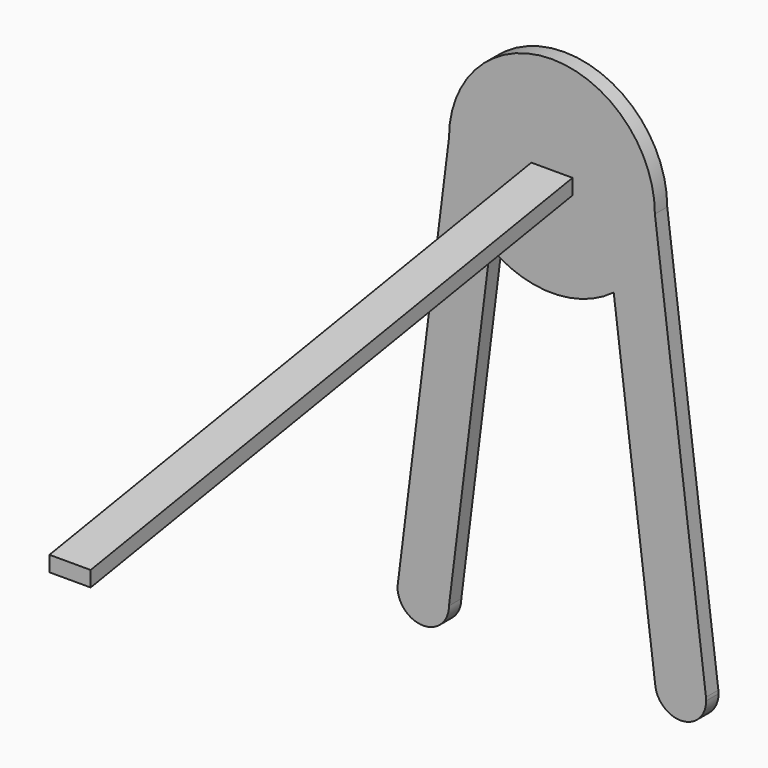
from build123d import *

# Parameters (mm, degrees)
F1_DEPTH = 3
F4_W     = 8
F4_H     = 3


with BuildPart() as f1:
    # F0 (on Front) → F1 (new body)
    with BuildSketch(Plane.XZ):
        with BuildLine():
            Line((10, 0), (20, 0))
            ThreePointArc((20, 0), (0, 20), (-20, 0))
            Line((-20, 0), (-10, 0))
            ThreePointArc((-10, 0), (0, 10), (10, 0))
        make_face()
        with BuildLine():
            Line((-10, 0), (10, 0))
            ThreePointArc((10, 0), (0, 10), (-10, 0))
        make_face()
        with BuildLine():
            ThreePointArc((-10, 0), (0, -10), (10, 0))
            Line((10, 0), (-10, 0))
        make_face()
        with BuildLine():
            Line((-10, 0), (-20, 0))
            ThreePointArc((-20, 0), (-17.88854382, -8.94427191), (-12, -16))
            Line((-12, -16), (-10, 0))
        make_face()
        with BuildLine():
            ThreePointArc((-12, -16), (0, -20), (12, -16))
            Line((12, -16), (10, 0))
            ThreePointArc((10, 0), (0, -10), (-10, 0))
            Line((-10, 0), (-12, -16))
        make_face()
        with BuildLine():
            ThreePointArc((12, -16), (17.88854382, -8.94427191), (20, 0))
            Line((20, 0), (10, 0))
            Line((10, 0), (12, -16))
        make_face()
        with BuildLine():
            Line((20, -80), (20, 0))
            ThreePointArc((20, 0), (17.88854382, -8.94427191), (12, -16))
            Line((12, -16), (20, -80))
        make_face()
        with BuildLine():
            Line((29.9230769237, -79.3846153898), (20, 0))
            Line((20, 0), (20, -80))
            Line((20, -80), (20.0386106164, -80))
            ThreePointArc((20.0386106164, -80), (24.6917119597, -75.0481979947), (29.9230769237, -79.3846153898))
        make_face()
        with BuildLine():
            ThreePointArc((-12, -16), (-17.88854382, -8.94427191), (-20, 0))
            Line((-20, 0), (-20, -80))
            Line((-20, -80), (-12, -16))
        make_face()
        with BuildLine():
            Line((-20, -80), (-20, 0))
            Line((-20, 0), (-29.8461538462, -78.7692307692))
            ThreePointArc((-29.8461538462, -78.7692307692), (-24.3798263271, -75.0386106164), (-20, -80))
        make_face()
        with BuildLine():
            Line((-30, -80), (-20, -80))
            ThreePointArc((-20, -80), (-24.3798263271, -75.0386106164), (-29.8461538462, -78.7692307692))
            Line((-29.8461538462, -78.7692307692), (-30, -80))
        make_face()
        with BuildLine():
            ThreePointArc((-30, -80), (-25, -85), (-20, -80))
            Line((-20, -80), (-30, -80))
        make_face()
        with BuildLine():
            Line((29.9613893836, -80), (20.0386106164, -80))
            ThreePointArc((20.0386106164, -80), (25, -84.9613893836), (29.9613893836, -80))
        make_face()
        with BuildLine():
            ThreePointArc((29.9613893836, -80), (29.9518020053, -79.6917119597), (29.9230769237, -79.3846153898))
            ThreePointArc((29.9230769237, -79.3846153898), (24.6917119597, -75.0481979947), (20.0386106164, -80))
            Line((20.0386106164, -80), (29.9613893836, -80))
        make_face()
    extrude(amount=F1_DEPTH)

    # F4 (on Front) → F5 section 0
    with BuildSketch(Plane.XZ):
        Rectangle(F4_W, F4_H)
    # F3 (on offset) → F5 section 1
    with BuildSketch(Plane.XZ.offset(120)):
        Polygon((0, -18.5), (-4, -18.5), (-4, -21.5), (4, -21.5), (4, -18.5), align=None)
    loft()


solid = f1.part
